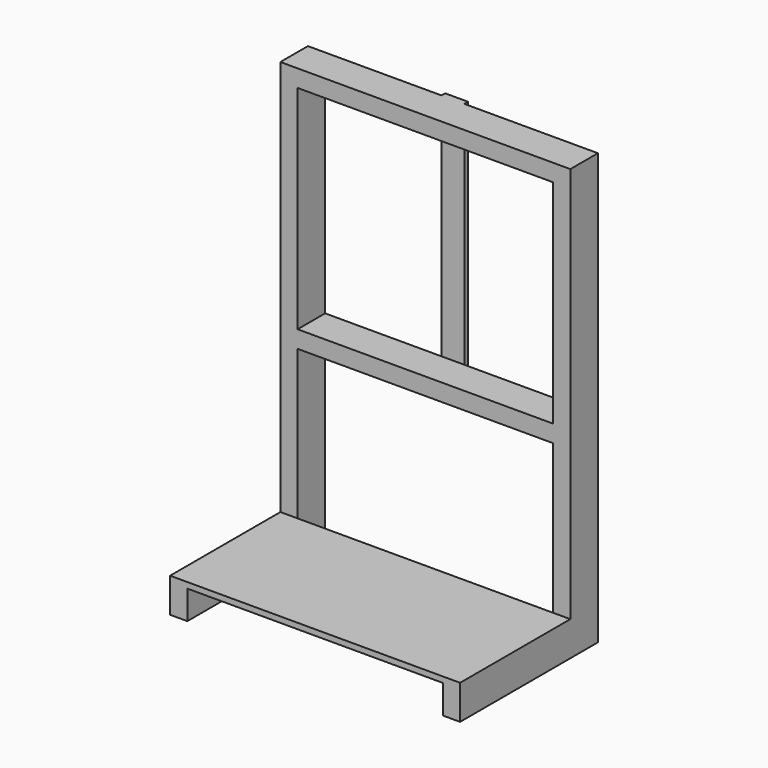
from build123d import *

# Parameters (mm, degrees)
F0_W     = 445
F0_H     = 370
F1_DEPTH = 60
F2_W     = 30
F2_H     = 50
F3_DEPTH = 240
F4_W     = 505
F4_H     = 240
F5_DEPTH = 10
F6_W     = 40
F6_H     = 430
F7_DEPTH = 8


with BuildPart() as f1:
    # F0 (on Front) → F1 (new body)
    with BuildSketch(Plane.XZ):
        Polygon((505, 750), (0, 750), (0, 0), (30, 0), (30, 320), (475, 320), (475, 0), (505, 0), align=None)
        with Locations((252.5, 535)):
            Rectangle(F0_W, F0_H, mode=Mode.SUBTRACT)
    extrude(amount=F1_DEPTH)

    # F2 (on face) → F3 (join)
    with BuildSketch(Plane.XZ.offset(60)):
        with Locations((15, 25)):
            Rectangle(F2_W, F2_H)
        with Locations((490, 25)):
            Rectangle(F2_W, F2_H)
    extrude(amount=F3_DEPTH)

    # F4 (on face) → F5 (join)
    with BuildSketch(Plane.XY.offset(50)):
        with Locations((252.5, -180)):
            Rectangle(F4_W, F4_H)
    extrude(amount=F5_DEPTH)

    # F6 (on face) → F7 (join)
    with BuildSketch(Plane(origin=(0, 0, 0), x_dir=(-1, 0, 0), z_dir=(0, 1, 0))):
        with Locations((-252.5, 535)):
            Rectangle(F6_W, F6_H)
    extrude(amount=F7_DEPTH)


solid = f1.part
